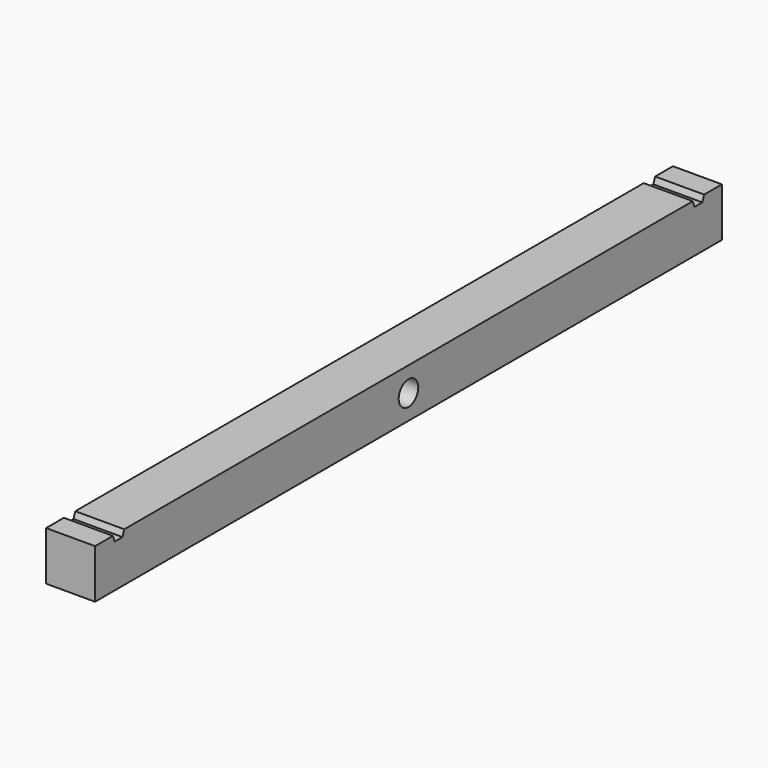
from build123d import *

# Parameters (mm, degrees)
F0_W     = 101.6
F0_H     = 6.35
F0_R     = 1.5875
F1_DEPTH = 6.35
F3_DEPTH = 7.62


with BuildPart() as f1:
    # F0 (on Right) → F1 (new body)
    with BuildSketch(Plane.YZ):
        Rectangle(F0_W, F0_H)
        Circle(F0_R, mode=Mode.SUBTRACT)
    extrude(amount=F1_DEPTH)

    # F2 (on face) → F3 (cut)
    with BuildSketch(Plane.YZ.offset(6.35)):
        Polygon((-48.653484, 5.152834), (-47.625, 2.402468), (-46.355, 2.402468), (-45.326516, 5.152834), align=None)
        Polygon((45.326516, 5.152834), (46.355, 2.402468), (47.625, 2.402468), (48.653484, 5.152834), align=None)
    extrude(amount=-F3_DEPTH, mode=Mode.SUBTRACT)


solid = f1.part
